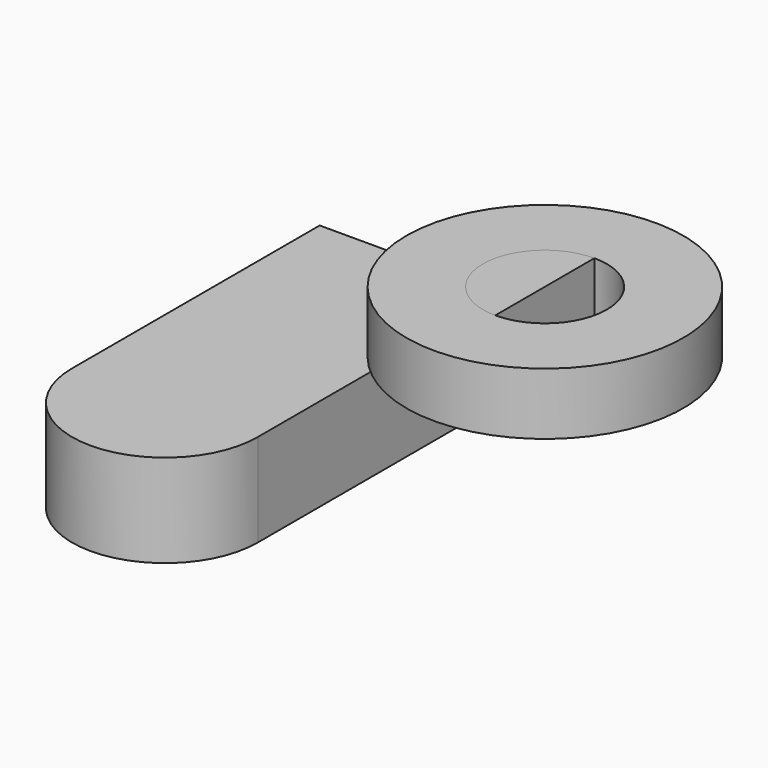
from build123d import *

# Parameters (mm, degrees)
F1_DEPTH  = 63.5
F2_DEPTH  = 25.4
F3_DEPTH  = 12.7
F4_DEPTH  = 25.4
F4_FACE_W = 50.8
F4_FACE_H = 25.4
F7_DEPTH  = 127.001


with BuildPart() as f1:
    # F0 (on Front) → F1 (new body, symmetric)
    with BuildSketch(Plane.XZ):
        Polygon((-38.1, 19.05), (-38.1, -19.05), (38.1, -19.05), (38.1, 19.05), (28.702, 19.05), align=None)
    extrude(amount=F1_DEPTH, both=True)

    # F0 (on Front) → F2 (join, symmetric)
    with BuildSketch(Plane.XZ):
        with BuildLine():
            Line((28.702, 19.05), (38.1, 19.05))
            Line((38.1, 19.05), (38.1, 33.581085))
            ThreePointArc((38.1, 33.581085), (41.818768, 42.558985), (50.796668, 46.277752))
            Line((50.796668, 46.277752), (54.274827, 46.277752))
            Line((54.274827, 46.277752), (54.274827, 55.675753))
            Line((54.274827, 55.675753), (50.796668, 55.675753))
            ThreePointArc((50.796668, 55.675753), (35.173378, 49.204374), (28.702, 33.581085))
            Line((28.702, 33.581085), (28.702, 19.05))
        make_face()
    extrude(amount=F2_DEPTH, both=True)

    # F0 (on Front) → F3 (join, symmetric)
    with BuildSketch(Plane.XZ):
        with BuildLine():
            add(Edge.make_bspline(
                [(54.274827, 69.281778), (42.014824, 65.808109), (14.071827, 56.114373), (-25.040564, 50.807887), (-36.648956, 24.378304), (-38.1, 19.05)],
                knots=[0, 0, 0, 0, 39.835231, 87.963707, 110.08523, 110.08523, 110.08523, 110.08523], degree=3))
            Line((-38.1, 19.05), (28.702, 19.05))
            Line((28.702, 19.05), (28.702, 33.581085))
            ThreePointArc((28.702, 33.581085), (35.173378, 49.204374), (50.796668, 55.675753))
            Line((50.796668, 55.675753), (54.274827, 55.675753))
            Line((54.274827, 55.675753), (54.274827, 69.281778))
        make_face()
    extrude(amount=F3_DEPTH, both=True)

    # F6 (on face) → F7 (intersect, through all)
    with BuildSketch(Plane.XZ.offset(63.5)):
        Polygon((-38.1, -19.05), (0, -19.05), (0, -12.021991), (16.304189, -12.021991), (16.304189, -19.05), (38.1, -19.05), (38.1, 19.05), (-38.1, 19.05), align=None)
    extrude(amount=-F7_DEPTH, mode=Mode.INTERSECT)

    # F9 (on face) → F10 (revolve)
    with BuildSketch(Plane.XZ.offset(63.5)):
        Polygon((38.1, 19.05), (0, 19.05), (0, -12.021991), (16.304189, -12.021991), (16.304189, -19.05), (38.1, -19.05), align=None)
    revolve(axis=Axis((0, -63.5, 3.514004), (0, 0, -1)))


with BuildPart() as f4:
    # F0 (on Front) → F4 (new body, symmetric)
    with BuildSketch(Plane.XZ):
        Polygon((105.074827, 69.281778), (54.274827, 69.281778), (54.274827, 55.675753), (54.274827, 46.277752), (54.274827, 43.881778), (105.074827, 43.881778), align=None)
    extrude(amount=F4_DEPTH, both=True)


with BuildPart() as f5:
    # F4_face (on face) → F5 (revolve)
    with BuildSketch(Plane(origin=(79.674827, 25.4, 56.581778), x_dir=(1, 0, 0), z_dir=(0, 1, 0))):
        Rectangle(F4_FACE_W, F4_FACE_H)
    revolve(axis=Axis((105.074827, 0, 56.581778), (0, 0, -1)))


solid = Compound([f1.part, f4.part, f5.part])
